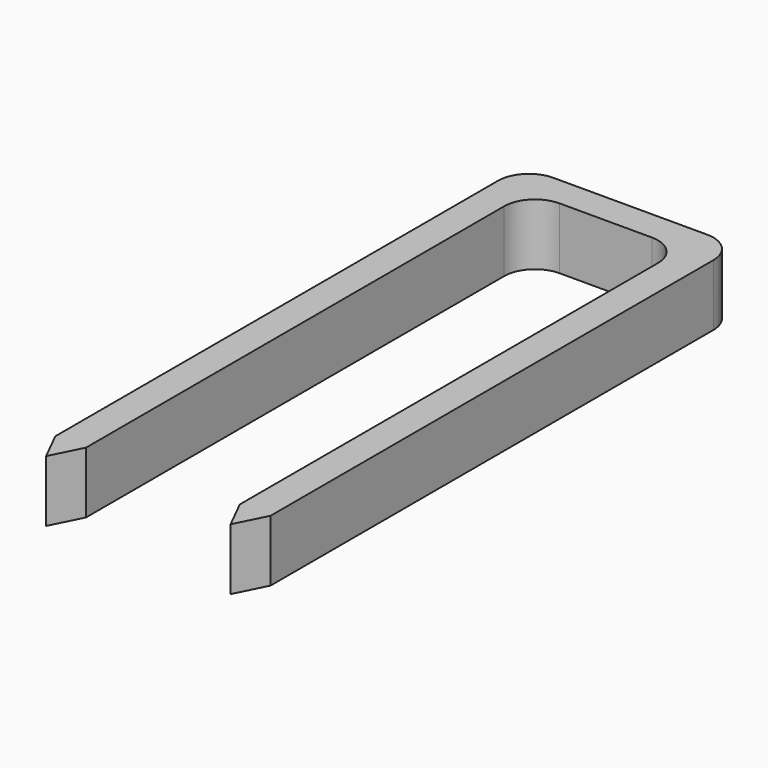
from build123d import *

# Parameters (mm, degrees)
F1_DEPTH = 5.08
F2_R     = 2.54


with BuildPart() as f1:
    # F0 (on Top) → F1 (new body)
    with BuildSketch(Plane.XY):
        Polygon((0, 50.8), (0, 2.54), (1.27, 0), (2.54, 2.54), (2.54, 48.26), (15.24, 48.26), (15.24, 2.54), (16.51, 0), (17.78, 2.54), (17.78, 50.8), align=None)
    extrude(amount=F1_DEPTH)

    # F2
    f2_edges = [f1.edges().sort_by_distance(p)[0] for p in [
        (2.54, 48.26, 2.54),
        (15.24, 48.26, 2.54),
        (0, 50.8, 2.54),
        (17.78, 50.8, 2.54),
    ]]
    fillet(f2_edges, radius=F2_R)


solid = f1.part
